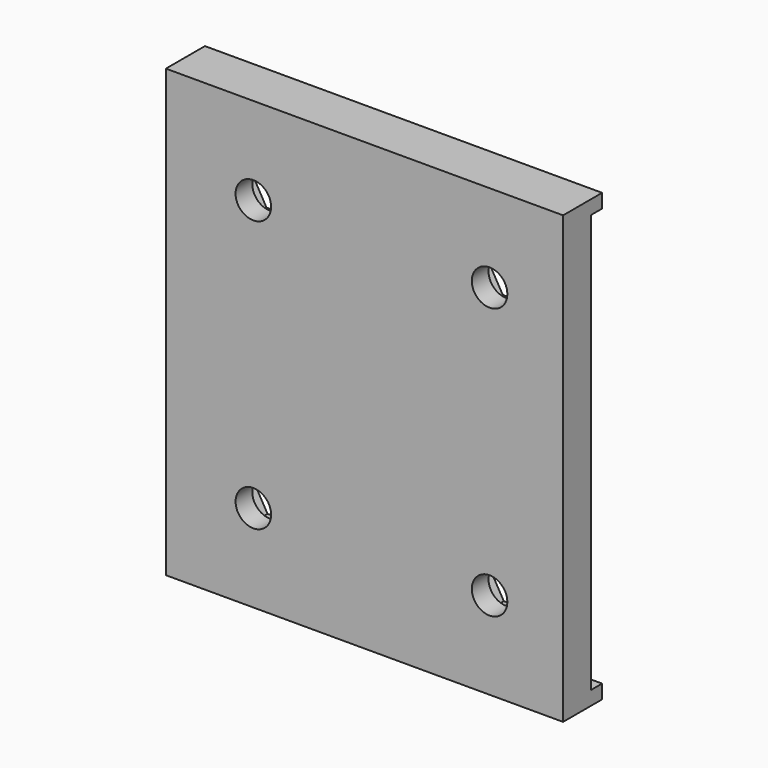
from build123d import *

# Parameters (mm, degrees)
F0_W     = 57
F0_H     = 60
F0_R     = 2.55
F1_DEPTH = 2.5
F2_W     = 57
F2_H     = 2
F3_DEPTH = 7
F5_R     = 2.55
F6_DEPTH = 2


with BuildPart() as f1:
    # F0 (on Front) → F1 (new body, symmetric)
    with BuildSketch(Plane.XZ):
        with Locations((-26.5, 28.9)):
            Rectangle(F0_W, F0_H)
        with Locations((-42.45, 9.45)):
            Circle(F0_R, mode=Mode.SUBTRACT)
        with Locations((-8.55, 9.45)):
            Circle(F0_R, mode=Mode.SUBTRACT)
        with Locations((-42.45, 48.35)):
            Circle(F0_R, mode=Mode.SUBTRACT)
        with Locations((-8.55, 48.35)):
            Circle(F0_R, mode=Mode.SUBTRACT)
    extrude(amount=F1_DEPTH, both=True)

    # F2 (on face) → F3 (join)
    with BuildSketch(Plane.XZ.offset(2.5)):
        with Locations((-26.5, 59.9)):
            Rectangle(F2_W, F2_H)
        with Locations((-26.5, -2.1)):
            Rectangle(F2_W, F2_H)
    extrude(amount=-F3_DEPTH)

    # F5 (on face) → F6 (cut)
    with BuildSketch(Plane(origin=(0, 2.5, 0), x_dir=(-1, 0, 0), z_dir=(0, 1, 0))):
        Polygon((40.490779, 6.056529), (44.409221, 6.056529), (46.368442, 9.45), (44.409221, 12.843471), (40.490779, 12.843471), (38.531558, 9.45), align=None)
        with Locations((42.45, 9.45)):
            Circle(F5_R, mode=Mode.SUBTRACT)
        Polygon((6.590779, 6.056529), (10.509221, 6.056529), (12.468442, 9.45), (10.509221, 12.843471), (6.590779, 12.843471), (4.631558, 9.45), align=None)
        with Locations((8.55, 9.45)):
            Circle(F5_R, mode=Mode.SUBTRACT)
        Polygon((6.444065, 44.702414), (10.655935, 44.702414), (12.761869, 48.35), (10.655935, 51.997586), (6.444065, 51.997586), (4.338131, 48.35), align=None)
        with Locations((8.55, 48.35)):
            Circle(F5_R, mode=Mode.SUBTRACT)
        Polygon((40.344065, 44.702414), (44.555935, 44.702414), (46.661869, 48.35), (44.555935, 51.997586), (40.344065, 51.997586), (38.238131, 48.35), align=None)
        with Locations((42.45, 48.35)):
            Circle(F5_R, mode=Mode.SUBTRACT)
    extrude(amount=-F6_DEPTH, mode=Mode.SUBTRACT)


solid = f1.part
